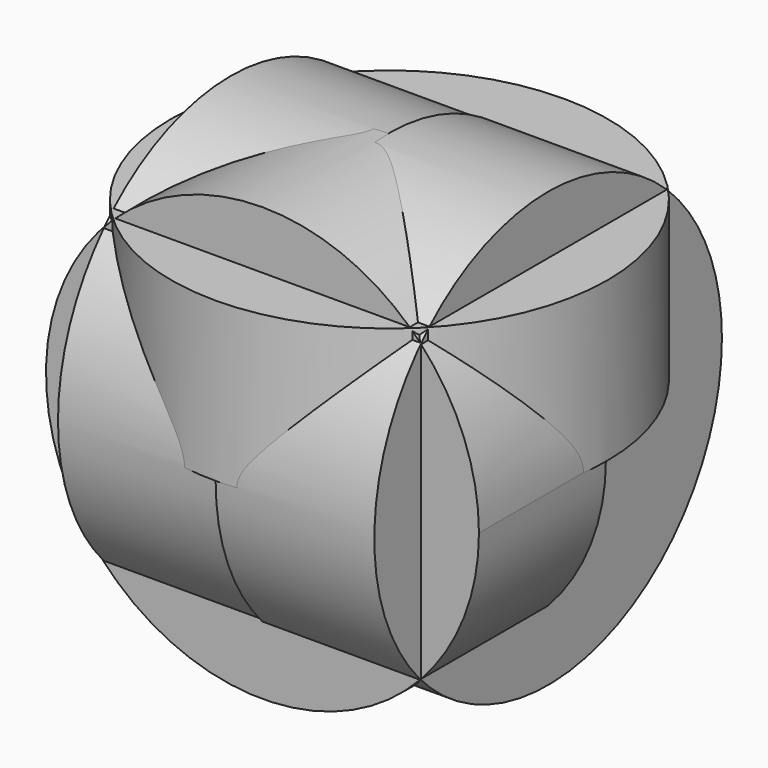
from build123d import *

# Parameters (mm, degrees)
F0_R      = 69.29858
F1_DEPTH  = 50.8
F2_R      = 69.381637
F3_DEPTH  = 50.8
F4_R      = 69.544385
F5_DEPTH  = 50.8
F6_R      = 69.112883
F7_DEPTH  = 50.8
F8_R      = 69.874838
F9_DEPTH  = 50.8
F10_R     = 69.061616
F11_DEPTH = 50.8


with BuildPart() as f1:
    # F0 (on Front) → F1 (new body)
    with BuildSketch(Plane.XZ):
        Circle(F0_R)
    extrude(amount=F1_DEPTH)

    # F2 (on Top) → F3 (join)
    with BuildSketch(Plane.XY):
        Circle(F2_R)
    extrude(amount=F3_DEPTH)

    # F4 (on Right) → F5 (join)
    with BuildSketch(Plane.YZ):
        Circle(F4_R)
    extrude(amount=F5_DEPTH)

    # F6 (on Right) → F7 (join)
    with BuildSketch(Plane.YZ):
        Circle(F6_R)
    extrude(amount=-F7_DEPTH)

    # F8 (on Top) → F9 (join)
    with BuildSketch(Plane.XY):
        Circle(F8_R)
    extrude(amount=F9_DEPTH)

    # F10 (on Front) → F11 (join)
    with BuildSketch(Plane.XZ):
        Circle(F10_R)
    extrude(amount=F11_DEPTH)


solid = f1.part
